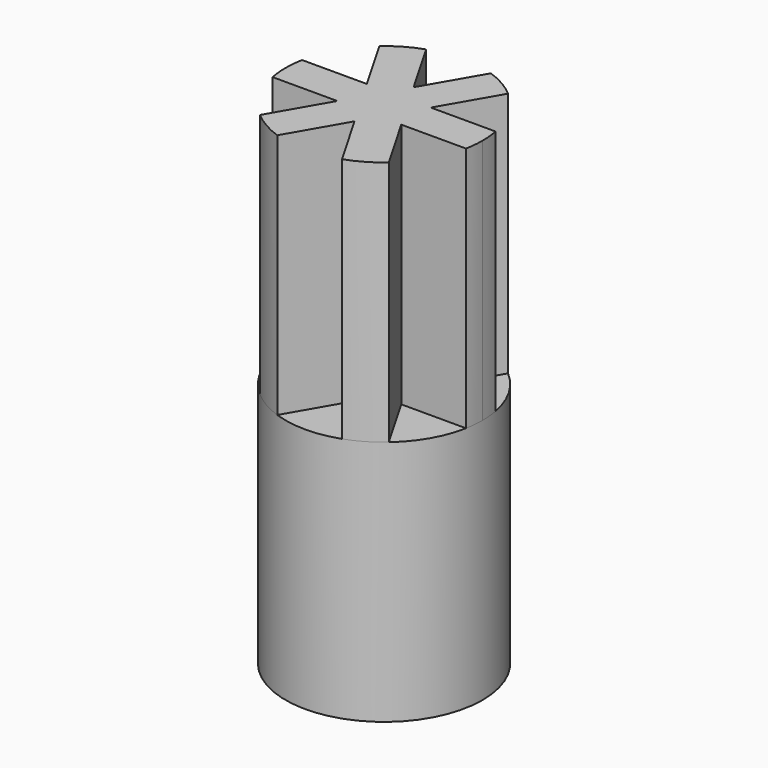
from build123d import *

# Parameters (mm, degrees)
F0_R     = 4
F0_R_2   = 1.75
F1_DEPTH = 10
F3_DEPTH = 8
F4_DEPTH = 10


with BuildPart() as f1:
    # F0 (on Top) → F1 (new body)
    with BuildSketch(Plane.XY):
        with Locations((-17.5178135131, 0)):
            Circle(F0_R)
        with Locations((-17.5178135131, 0)):
            Circle(F0_R_2, mode=Mode.SUBTRACT)
        with Locations((-17.5178135131, 0)):
            Circle(F0_R_2)
    extrude(amount=F1_DEPTH)

    # F0 (on Top) → F3 (cut)
    with BuildSketch(Plane.XY):
        with Locations((-17.5178135131, 0)):
            Circle(F0_R_2)
    extrude(amount=F3_DEPTH, mode=Mode.SUBTRACT)

    # F2 (on face) → F4 (join)
    with BuildSketch(Plane.XY.offset(10)):
        with BuildLine():
            Line((-16.6517881093, 0), (-13.5178135131, 0))
            ThreePointArc((-13.5178135131, 0), (-13.5355884036, 0.376673834), (-13.5887551017, 0.75))
            Line((-13.5887551017, 0.75), (-16.2187754074, 0.75))
            Line((-16.2187754074, 0.75), (-16.6517881093, 0))
        make_face()
        Polygon((-18.3838389169, 0), (-16.6517881093, 0), (-17.0848008112, 0.75), (-17.950826215, 0.75), align=None)
        with BuildLine():
            Line((-21.5178135131, 0), (-18.3838389169, 0))
            Line((-18.3838389169, 0), (-18.8168516188, 0.75))
            Line((-18.8168516188, 0.75), (-21.4468719245, 0.75))
            ThreePointArc((-21.4468719245, 0.75), (-21.5000386226, 0.376673834), (-21.5178135131, 0))
        make_face()
        with BuildLine():
            ThreePointArc((-13.5887551017, -0.75), (-13.5355884036, -0.376673834), (-13.5178135131, 0))
            Line((-13.5178135131, 0), (-16.6517881093, 0))
            Line((-16.6517881093, 0), (-16.2187754074, -0.75))
            Line((-16.2187754074, -0.75), (-13.5887551017, -0.75))
        make_face()
        Polygon((-17.0848008112, -0.75), (-16.6517881093, 0), (-18.3838389169, 0), (-17.950826215, -0.75), align=None)
        with BuildLine():
            Line((-18.8168516188, -0.75), (-18.3838389169, 0))
            Line((-18.3838389169, 0), (-21.5178135131, 0))
            ThreePointArc((-21.5178135131, 0), (-21.5000386226, -0.376673834), (-21.4468719245, -0.75))
            Line((-21.4468719245, -0.75), (-18.8168516188, -0.75))
        make_face()
        Polygon((-18.8168516188, 0.75), (-18.3838389169, 0), (-17.950826215, 0.75), align=None)
        Polygon((-17.0848008112, 0.75), (-16.6517881093, 0), (-16.2187754074, 0.75), align=None)
        Polygon((-16.2187754074, -0.75), (-16.6517881093, 0), (-17.0848008112, -0.75), align=None)
        Polygon((-17.950826215, -0.75), (-18.3838389169, 0), (-18.8168516188, -0.75), align=None)
        Polygon((-17.5178135131, -1.5), (-17.0848008112, -0.75), (-17.950826215, -0.75), align=None)
        with BuildLine():
            Line((-14.9037652546, -3.0276643972), (-16.2187754074, -0.75))
            Line((-16.2187754074, -0.75), (-17.0848008112, -0.75))
            Line((-17.0848008112, -0.75), (-17.5178135131, -1.5))
            Line((-17.5178135131, -1.5), (-16.2028033603, -3.7776643972))
            ThreePointArc((-16.2028033603, -3.7776643972), (-15.5178135131, -3.4641016151), (-14.9037652546, -3.0276643972))
        make_face()
        with BuildLine():
            Line((-17.5178135131, -1.5), (-17.950826215, -0.75))
            Line((-17.950826215, -0.75), (-18.8168516188, -0.75))
            Line((-18.8168516188, -0.75), (-20.1318617716, -3.0276643972))
            ThreePointArc((-20.1318617716, -3.0276643972), (-19.5178135131, -3.4641016151), (-18.832823666, -3.7776643972))
            Line((-18.832823666, -3.7776643972), (-17.5178135131, -1.5))
        make_face()
        Polygon((-17.950826215, 0.75), (-17.0848008112, 0.75), (-17.5178135131, 1.5), align=None)
        with BuildLine():
            Line((-20.1318617716, 3.0276643972), (-18.8168516188, 0.75))
            Line((-18.8168516188, 0.75), (-17.950826215, 0.75))
            Line((-17.950826215, 0.75), (-17.5178135131, 1.5))
            Line((-17.5178135131, 1.5), (-18.832823666, 3.7776643972))
            ThreePointArc((-18.832823666, 3.7776643972), (-19.5178135131, 3.4641016151), (-20.1318617716, 3.0276643972))
        make_face()
        with BuildLine():
            Line((-17.5178135131, 1.5), (-17.0848008112, 0.75))
            Line((-17.0848008112, 0.75), (-16.2187754074, 0.75))
            Line((-16.2187754074, 0.75), (-14.9037652546, 3.0276643972))
            ThreePointArc((-14.9037652546, 3.0276643972), (-15.5178135131, 3.4641016151), (-16.2028033603, 3.7776643972))
            Line((-16.2028033603, 3.7776643972), (-17.5178135131, 1.5))
        make_face()
    extrude(amount=F4_DEPTH)


solid = f1.part
